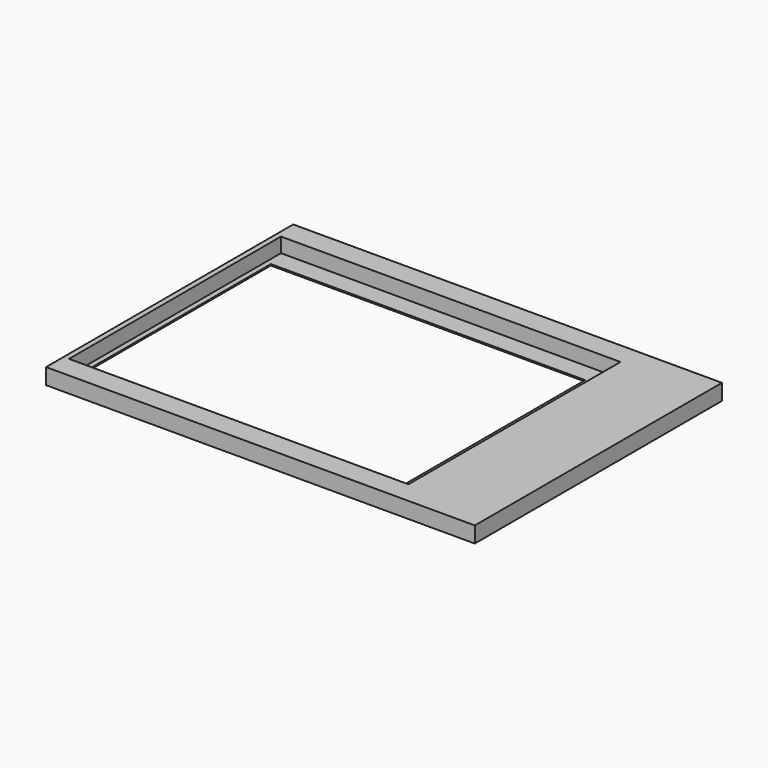
from build123d import *

# Parameters (mm, degrees)
F0_W     = 127.5
F0_H     = 99.5
F0_W_2   = 118
F0_H_2   = 89
F1_DEPTH = 0.5
F0_W_3   = 161
F0_H_3   = 116
F2_DEPTH = 6


with BuildPart() as f1:
    # F0 (on Top) → F1 (new body)
    with BuildSketch(Plane.XY):
        with Locations((-6.918223, -4.339466)):
            Rectangle(F0_W, F0_H)
        with Locations((-9.668223, -6.339466)):
            Rectangle(F0_W_2, F0_H_2, mode=Mode.SUBTRACT)
    extrude(amount=F1_DEPTH)

    # F0 (on Top) → F2 (join)
    with BuildSketch(Plane.XY):
        with Locations((7.831777, -4.339466)):
            Rectangle(F0_W_3, F0_H_3)
        with Locations((-6.918223, -4.339466)):
            Rectangle(F0_W, F0_H, mode=Mode.SUBTRACT)
    extrude(amount=F2_DEPTH)


solid = f1.part
